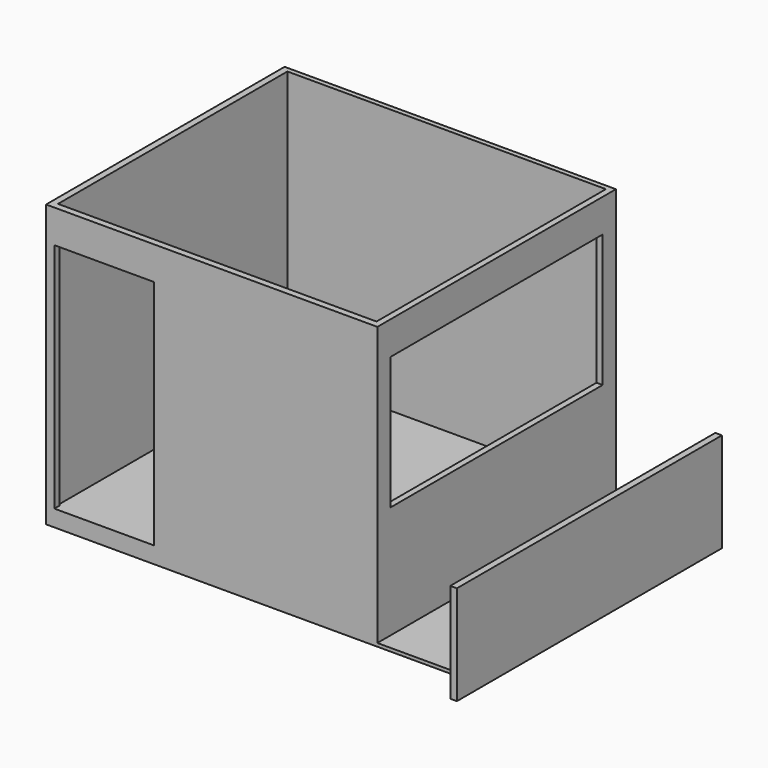
from build123d import *

# Parameters (mm, degrees)
F0_W      = 5.08
F0_H      = 254
F1_DEPTH  = 76.2
F2_W      = 76.2
F2_H      = 228.6
F3_DEPTH  = 2.54
F4_W      = 254
F4_H      = 228.6
F5_DEPTH  = 12.7
F6_W      = 254
F6_H      = 228.6
F7_DEPTH  = 203.2
F8_W      = 244.1982476321
F8_H      = 219.8302176212
F9_DEPTH  = 203.2
F10_W     = 203.2
F10_H     = 101.6
F11_DEPTH = 25.4
F12_W     = 76.2
F12_H     = 177.8
F13_DEPTH = 25.4


with BuildPart() as f1:
    # F0 (on Top) → F1 (new body)
    with BuildSketch(Plane.XY):
        with Locations((78.74, -50.8)):
            Rectangle(F0_W, F0_H)
    extrude(amount=F1_DEPTH)

    # F2 (on Top) → F3 (join)
    with BuildSketch(Plane.XY):
        with Locations((38.1, -38.1)):
            Rectangle(F2_W, F2_H)
    extrude(amount=F3_DEPTH)

    # F4 (on Top) → F5 (join)
    with BuildSketch(Plane.XY):
        with Locations((-127, -38.1)):
            Rectangle(F4_W, F4_H)
    extrude(amount=F5_DEPTH)

    # F6 (on face) → F7 (join)
    with BuildSketch(Plane.XY.offset(12.7)):
        with Locations((-127, -38.1)):
            Rectangle(F6_W, F6_H)
    extrude(amount=F7_DEPTH)

    # F8 (on face) → F9 (cut)
    with BuildSketch(Plane.XY.offset(215.9)):
        with Locations((-126.820876184, -37.4048911894)):
            Rectangle(F8_W, F8_H)
    extrude(amount=-F9_DEPTH, mode=Mode.SUBTRACT)

    # F10 (on face) → F11 (cut)
    with BuildSketch(Plane.YZ):
        with Locations((-38.1, 139.7)):
            Rectangle(F10_W, F10_H)
    extrude(amount=-F11_DEPTH, mode=Mode.SUBTRACT)

    # F12 (on face) → F13 (cut)
    with BuildSketch(Plane.XZ.offset(152.4)):
        with Locations((-209.5483732462, 101.6)):
            Rectangle(F12_W, F12_H)
    extrude(amount=-F13_DEPTH, mode=Mode.SUBTRACT)


solid = f1.part
